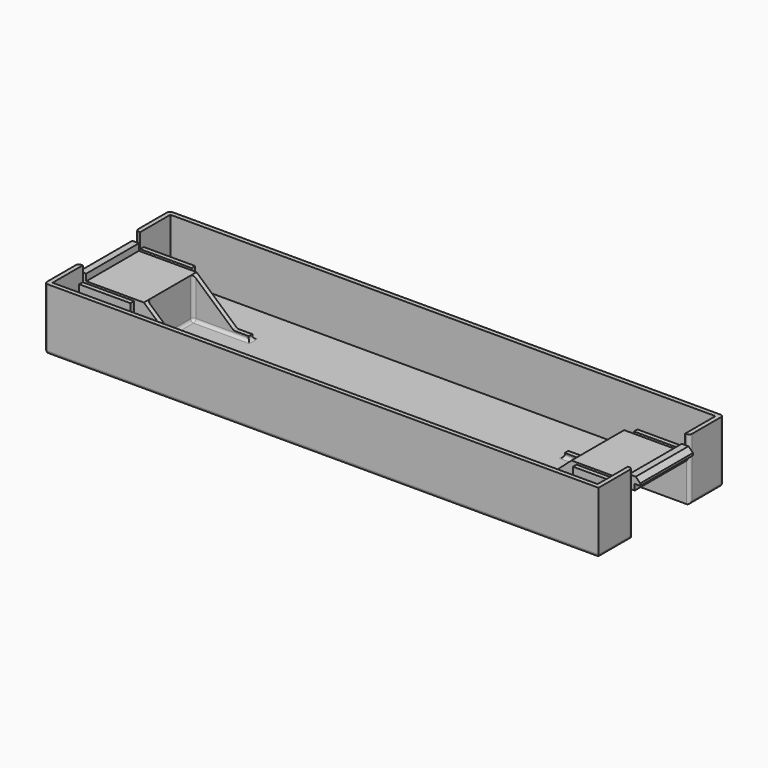
from build123d import *

# Parameters (mm, degrees)
PAD_DEPTH    = 1.6
SKETCH002_W  = 2
SKETCH002_H  = 17.7
PAD001_DEPTH = 11
PAD002_DEPTH = 4
SKETCH004_W  = 15
SKETCH004_H  = 17.7
PAD003_DEPTH = 1.6
SKETCH005_W  = 3
SKETCH005_H  = 17.7
PAD004_DEPTH = 1.8
PAD005_DEPTH = 1.2
PAD006_DEPTH = 1.2
CHAMFER_SIZE = 1.2
FILLET_R     = 0.8


with BuildPart() as part:
    # Sketch001 → Pad (new body)
    with BuildSketch(Plane.XY):
        Polygon((-44.5, -9.65), (-74.5, -9.65), (-74.5, -21), (74.5, -21), (74.5, -9.65), (44.5, -9.65), (44.5, -8.85), (59.5, -8.85), (59.5, 8.85), (44.5, 8.85), (44.5, 9.65), (74.5, 9.65), (74.5, 21), (-74.5, 21), (-74.5, 9.65), (-44.5, 9.65), (-44.5, 8.85), (-59.5, 8.85), (-59.5, -8.85), (-44.5, -8.85), align=None)
    extrude(amount=PAD_DEPTH)

    # Sketch002 → Pad001 (join)
    with BuildSketch(Plane.XY.offset(1.6)):
        Polygon((59.5, 9.65), (74.5, 9.65), (74.5, 21), (-74.5, 21), (-74.5, 9.65), (-59.5, 9.65), (-59.5, 10.85), (-73.3, 10.85), (-73.3, 19.8), (73.3, 19.8), (73.3, 10.85), (59.5, 10.85), align=None)
        Polygon((-59.5, -9.65), (-74.5, -9.65), (-74.5, -21), (74.5, -21), (74.5, -9.65), (59.5, -9.65), (59.5, -10.85), (73.3, -10.85), (73.3, -19.8), (-73.3, -19.8), (-73.3, -10.85), (-59.5, -10.85), align=None)
        with Locations((-58.5, 0)):
            Rectangle(SKETCH002_W, SKETCH002_H)
        with Locations((58.5, 0)):
            Rectangle(SKETCH002_W, SKETCH002_H)
    extrude(amount=PAD001_DEPTH)

    # Sketch003 → Pad002 (join)
    with BuildSketch(Plane.XY.offset(12.6)):
        Polygon((-74.5, 9.65), (-74.5, 21), (74.5, 21), (74.5, 9.65), (73.3, 9.65), (73.3, 19.8), (-73.3, 19.8), (-73.3, 9.65), align=None)
        Polygon((-74.5, -9.65), (-74.5, -21), (74.5, -21), (74.5, -9.65), (73.3, -9.65), (73.3, -19.8), (-73.3, -19.8), (-73.3, -9.65), align=None)
    extrude(amount=PAD002_DEPTH)

    # Sketch004 → Pad003 (join)
    with BuildSketch(Plane.XY.offset(12.6)):
        with Locations((-67, 0)):
            Rectangle(SKETCH004_W, SKETCH004_H)
        with Locations((67, 0)):
            Rectangle(SKETCH004_W, SKETCH004_H)
    extrude(amount=-PAD003_DEPTH)

    # Sketch005 → Pad004 (join)
    with BuildSketch(Plane.XY.offset(12.6)):
        with Locations((-74.5, 0)):
            Rectangle(SKETCH005_W, SKETCH005_H)
        with Locations((74.5, 0)):
            Rectangle(SKETCH005_W, SKETCH005_H)
    extrude(amount=PAD004_DEPTH)

    # Sketch006 (on DatumPlane) → Pad005 (join)
    with BuildSketch(Plane(origin=(59.5, 8.85, 0), x_dir=(-1, 0, 0), z_dir=(0, 1, 0))):
        Polygon((2, 1.6), (17, 1.6), (17, 2.8), (13, 2.8), (2, 12.6), align=None)
        Polygon((0, 0), (0, 11), (-11, 11), align=None)
        Polygon((119, 0), (119, 11), (130, 11), align=None)
        Polygon((102, 1.6), (117, 1.6), (117, 12.6), (106, 2.8), (102, 2.8), align=None)
    extrude(amount=-PAD005_DEPTH)

    # Sketch007 (on DatumPlane) → Pad006 (join)
    with BuildSketch(Plane(origin=(59.5, -8.85, 0), x_dir=(-1, 0, 0), z_dir=(0, 1, 0))):
        Polygon((2, 1.6), (17, 1.6), (17, 2.8), (13, 2.8), (2, 12.6), align=None)
        Polygon((0, 0), (0, 11), (-11, 11), align=None)
        Polygon((119, 0), (119, 11), (130, 11), align=None)
        Polygon((102, 1.6), (117, 1.6), (117, 12.6), (106, 2.8), (102, 2.8), align=None)
    extrude(amount=PAD006_DEPTH)

    # Chamfer
    chamfer_edges = [part.edges().sort_by_distance(p)[0] for p in [
        (76, 0, 14.4),
        (-76, 0, 14.4),
    ]]
    chamfer(chamfer_edges, length=CHAMFER_SIZE)

    # Fillet
    fillet_edges = [part.edges().sort_by_distance(p)[0] for p in [
        (43.5, 8.85, 1.6),
        (-43.5, 8.85, 1.6),
        (-42.5, 8.25, 1.6),
        (-42.5, -8.25, 1.6),
        (-50, -7.65, 1.6),
        (-57.5, 0, 1.6),
        (50, -7.65, 1.6),
        (42.5, 8.25, 1.6),
        (50, 7.65, 1.6),
        (57.5, 0, 1.6),
        (42.5, -8.25, 1.6),
        (43.5, -8.85, 1.6),
        (-43.5, -8.85, 1.6),
        (-50, 7.65, 1.6),
        (74.5, 21, 8.3),
        (-74.5, 21, 8.3),
        (-74.5, 15.325, 0),
        (-74.5, 9.65, 8.3),
        (-74.5, -9.65, 8.3),
        (-74.5, -15.325, 0),
        (-74.5, -21, 8.3),
        (0, 21, 0),
        (0, -21, 0),
        (-59.5, 7.65, 5.5),
        (-59.5, -7.65, 5.5),
        (74.5, 15.325, 0),
        (74.5, 9.65, 8.3),
        (74.5, -15.325, 0),
        (74.5, -9.65, 8.3),
        (59.5, 7.65, 5.5),
        (59.5, -7.65, 5.5),
        (70.5, -8.25, 11),
        (70.5, 8.25, 11),
        (-70.5, 8.25, 11),
        (-70.5, -8.25, 11),
        (-57.5, 7.65, 7.1),
        (57.5, 7.65, 7.1),
        (57.5, -7.65, 7.1),
        (-57.5, -7.65, 7.1),
        (-46.5, -8.25, 2.8),
        (-46.5, 8.25, 2.8),
        (46.5, 8.25, 2.8),
        (46.5, -8.25, 2.8),
    ]]
    fillet(fillet_edges, radius=FILLET_R)


solid = part.part
